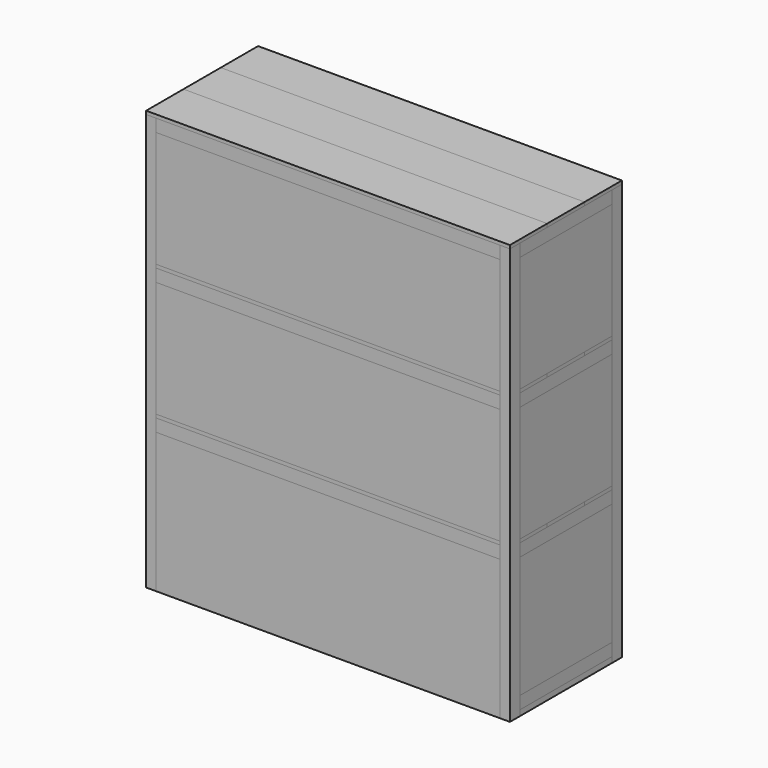
from build123d import *

# Parameters (mm, degrees)
F1_W      = 1300
F1_H      = 500
F2_DEPTH  = 1500
F4_W      = 36
F4_H      = 45
F5_DEPTH  = 1488
F6_W      = 36
F6_H      = 410
F7_DEPTH  = 45
F6_W_2    = 1228
F6_H_2    = 36
F8_W      = 36
F8_H      = 428
F9_DEPTH  = 45
F10_W     = 1300
F10_H     = 166.6666666667
F11_DEPTH = 12
F12_DEPTH = 12
F13_DEPTH = 12
F14_W     = 1228
F14_H     = 45
F15_DEPTH = 36
F17_W     = 410
F17_H     = 45
F18_DEPTH = 36
F20_W     = 36
F20_H     = 428
F21_DEPTH = 45
F22_W     = 1228
F22_H     = 36
F23_DEPTH = 12
F22_W_2   = 1300
F22_H_2   = 166.6666666667
F24_DEPTH = 12
F25_DEPTH = 12
F28_W     = 410
F28_H     = 45
F29_DEPTH = 36
F31_W     = 1228
F31_H     = 45
F32_DEPTH = 36
F34_W     = 410
F34_H     = 45
F35_DEPTH = 36
F37_W     = 1228
F37_H     = 36
F38_DEPTH = 12
F37_W_2   = 1300
F37_H_2   = 166.6666666667
F39_DEPTH = 12
F40_DEPTH = 12


with BuildPart() as f2:
    # F1 (on Top) → F2 (new body)
    with BuildSketch(Plane.XY):
        Rectangle(F1_W, F1_H)
    extrude(amount=F2_DEPTH)


with BuildPart() as f5:
    # F4 (on face) → F5 (new body, through all)
    with BuildSketch(Plane(origin=(0, 0, 0), x_dir=(1, 0, 0), z_dir=(0, 0, -1))):
        with Locations((-632, 227.5)):
            Rectangle(F4_W, F4_H)
    extrude(amount=-F5_DEPTH)


with BuildPart() as f5b:
    # F4 (on face) → F5, piece 2 (new body, through all)
    with BuildSketch(Plane(origin=(0, 0, 0), x_dir=(1, 0, 0), z_dir=(0, 0, -1))):
        with Locations((-632, -227.5)):
            Rectangle(F4_W, F4_H)
    extrude(amount=-F5_DEPTH)


with BuildPart() as f5c:
    # F4 (on face) → F5, piece 3 (new body, through all)
    with BuildSketch(Plane(origin=(0, 0, 0), x_dir=(1, 0, 0), z_dir=(0, 0, -1))):
        with Locations((632, 227.5)):
            Rectangle(F4_W, F4_H)
    extrude(amount=-F5_DEPTH)


with BuildPart() as f5d:
    # F4 (on face) → F5, piece 4 (new body, through all)
    with BuildSketch(Plane(origin=(0, 0, 0), x_dir=(1, 0, 0), z_dir=(0, 0, -1))):
        with Locations((632, -227.5)):
            Rectangle(F4_W, F4_H)
    extrude(amount=-F5_DEPTH)


with BuildPart() as f7:
    # F6 (on offset) → F7 (new body)
    with BuildSketch(Plane.XY.offset(1488)):
        with Locations((-632, 0)):
            Rectangle(F6_W, F6_H)
    extrude(amount=-F7_DEPTH)


with BuildPart() as f7b:
    # F6 (on offset) → F7, piece 2 (new body)
    with BuildSketch(Plane.XY.offset(1488)):
        with Locations((0, 232)):
            Rectangle(F6_W_2, F6_H_2)
    extrude(amount=-F7_DEPTH)


with BuildPart() as f7c:
    # F6 (on offset) → F7, piece 3 (new body)
    with BuildSketch(Plane.XY.offset(1488)):
        with Locations((632, 0)):
            Rectangle(F6_W, F6_H)
    extrude(amount=-F7_DEPTH)


with BuildPart() as f7d:
    # F6 (on offset) → F7, piece 4 (new body)
    with BuildSketch(Plane.XY.offset(1488)):
        with Locations((0, -232)):
            Rectangle(F6_W_2, F6_H_2)
    extrude(amount=-F7_DEPTH)


with BuildPart() as f9:
    # F8 (on offset) → F9 (new body)
    with BuildSketch(Plane.XY.offset(1488)):
        with Locations((-316, 0)):
            Rectangle(F8_W, F8_H)
    extrude(amount=-F9_DEPTH)


with BuildPart() as f9b:
    # F8 (on offset) → F9, piece 2 (new body)
    with BuildSketch(Plane.XY.offset(1488)):
        Rectangle(F8_W, F8_H)
    extrude(amount=-F9_DEPTH)


with BuildPart() as f9c:
    # F8 (on offset) → F9, piece 3 (new body)
    with BuildSketch(Plane.XY.offset(1488)):
        with Locations((316, 0)):
            Rectangle(F8_W, F8_H)
    extrude(amount=-F9_DEPTH)


with BuildPart() as f11:
    # F10 (on face) → F11 (new body)
    with BuildSketch(Plane.XY.offset(1500)):
        with Locations((0, -166.6666666667)):
            Rectangle(F10_W, F10_H)
    extrude(amount=-F11_DEPTH)


with BuildPart() as f12:
    # F10 (on face) → F12 (new body)
    with BuildSketch(Plane.XY.offset(1500)):
        Rectangle(F10_W, F10_H)
    extrude(amount=-F12_DEPTH)


with BuildPart() as f13:
    # F10 (on face) → F13 (new body)
    with BuildSketch(Plane.XY.offset(1500)):
        with Locations((0, 166.6666666667)):
            Rectangle(F10_W, F10_H)
    extrude(amount=-F13_DEPTH)


with BuildPart() as f15:
    # F14 (on face) → F15 (new body)
    with BuildSketch(Plane.XZ.offset(250)):
        with Locations((0, 522.5)):
            Rectangle(F14_W, F14_H)
    extrude(amount=-F15_DEPTH)


with BuildPart() as f16_1:
    # F16: instance of F15
    add(f15.part.mirror(Plane.XZ))


with BuildPart() as f18:
    # F17 (on face) → F18 (new body)
    with BuildSketch(Plane(origin=(-650, 0, 0), x_dir=(0, -1, 0), z_dir=(-1, 0, 0))):
        with Locations((0, 522.5)):
            Rectangle(F17_W, F17_H)
    extrude(amount=-F18_DEPTH)


with BuildPart() as f19_1:
    # F19: instance of F18
    add(f18.part.mirror(Plane.YZ))


with BuildPart() as f21:
    # F20 (on face) → F21 (new body)
    with BuildSketch(Plane.XY.offset(545)):
        with Locations((-316, 0)):
            Rectangle(F20_W, F20_H)
    extrude(amount=-F21_DEPTH)


with BuildPart() as f21b:
    # F20 (on face) → F21, piece 2 (new body)
    with BuildSketch(Plane.XY.offset(545)):
        Rectangle(F20_W, F20_H)
    extrude(amount=-F21_DEPTH)


with BuildPart() as f21c:
    # F20 (on face) → F21, piece 3 (new body)
    with BuildSketch(Plane.XY.offset(545)):
        with Locations((316, 0)):
            Rectangle(F20_W, F20_H)
    extrude(amount=-F21_DEPTH)


with BuildPart() as f23:
    # F22 (on face) → F23 (new body)
    with BuildSketch(Plane.XY.offset(545)):
        Polygon((650, -250), (650, -83.3333333333), (-650, -83.3333333333), (-650, -250), (-614, -250), (-614, -214), (614, -214), (614, -250), align=None)
        with Locations((0, -232)):
            Rectangle(F22_W, F22_H)
    extrude(amount=F23_DEPTH)

    # F26: cut F5, F5c
    add(f5.part, mode=Mode.SUBTRACT)
    add(f5c.part, mode=Mode.SUBTRACT)


with BuildPart() as f24:
    # F22 (on face) → F24 (new body)
    with BuildSketch(Plane.XY.offset(545)):
        Rectangle(F22_W_2, F22_H_2)
    extrude(amount=F24_DEPTH)


with BuildPart() as f25:
    # F22 (on face) → F25 (new body)
    with BuildSketch(Plane.XY.offset(545)):
        with Locations((0, 166.6666666667)):
            Rectangle(F22_W_2, F22_H_2)
    extrude(amount=F25_DEPTH)

    # F27: cut F5b, F5d
    add(f5b.part, mode=Mode.SUBTRACT)
    add(f5d.part, mode=Mode.SUBTRACT)


with BuildPart() as f29:
    # F28 (on face) → F29 (new body)
    with BuildSketch(Plane(origin=(-650, 0, 0), x_dir=(0, -1, 0), z_dir=(-1, 0, 0))):
        with Locations((0, 42.5)):
            Rectangle(F28_W, F28_H)
    extrude(amount=-F29_DEPTH)


with BuildPart() as f30_1:
    # F30: instance of F29
    add(f29.part.mirror(Plane.YZ))


with BuildPart() as f32:
    # F31 (on face) → F32 (new body)
    with BuildSketch(Plane.XZ.offset(250)):
        with Locations((0, 994)):
            Rectangle(F31_W, F31_H)
    extrude(amount=-F32_DEPTH)


with BuildPart() as f33_1:
    # F33: instance of F32
    add(f32.part.mirror(Plane.XZ))


with BuildPart() as f35:
    # F34 (on face) → F35 (new body)
    with BuildSketch(Plane(origin=(-650, 0, 0), x_dir=(0, -1, 0), z_dir=(-1, 0, 0))):
        with Locations((0, 994)):
            Rectangle(F34_W, F34_H)
    extrude(amount=-F35_DEPTH)


with BuildPart() as f36_1:
    # F36: instance of F35
    add(f35.part.mirror(Plane.YZ))


with BuildPart() as f38:
    # F37 (on face) → F38 (new body)
    with BuildSketch(Plane.XY.offset(1016.5)):
        Polygon((-650, -83.3333333333), (-650, -205), (-614, -205), (-614, -214), (614, -214), (614, -205), (650, -205), (650, -83.3333333333), align=None)
        with Locations((0, -232)):
            Rectangle(F37_W, F37_H)
    extrude(amount=F38_DEPTH)


with BuildPart() as f39:
    # F37 (on face) → F39 (new body)
    with BuildSketch(Plane.XY.offset(1016.5)):
        Rectangle(F37_W_2, F37_H_2)
    extrude(amount=F39_DEPTH)


with BuildPart() as f40:
    # F37 (on face) → F40 (new body)
    with BuildSketch(Plane.XY.offset(1016.5)):
        Polygon((-650, 205), (-650, 83.3333333333), (650, 83.3333333333), (650, 205), (614, 205), (614, 250), (-614, 250), (-614, 205), align=None)
    extrude(amount=F40_DEPTH)


solid = Compound([f2.part, f5.part, f5b.part, f5c.part, f5d.part, f7.part, f7b.part, f7c.part, f7d.part, f9.part, f9b.part, f9c.part, f11.part, f12.part, f13.part, f15.part, f16_1.part, f18.part, f19_1.part, f21.part, f21b.part, f21c.part, f23.part, f24.part, f25.part, f29.part, f30_1.part, f32.part, f33_1.part, f35.part, f36_1.part, f38.part, f39.part, f40.part])
